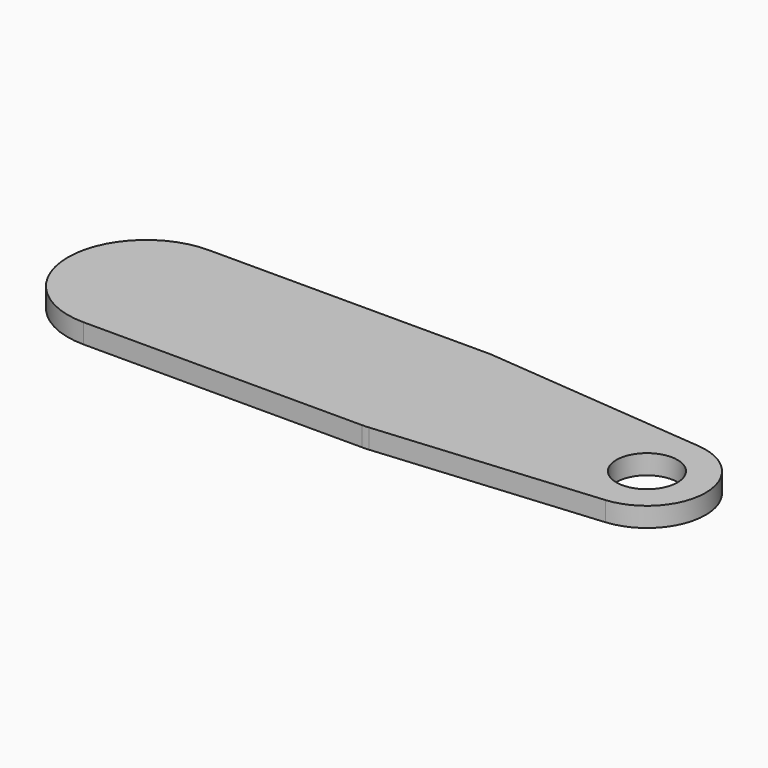
from build123d import *

# Parameters (mm, degrees)
SKETCH_R  = 6.25
PAD_DEPTH = 4


with BuildPart() as part:
    # Sketch → Pad (new body)
    with BuildSketch(Plane.XY):
        with BuildLine():
            ThreePointArc((1.054945, -11.953539), (12, 0), (1.054945, 11.953539))
            Line((-44.093407, 15.938052), (1.054945, 11.953539))
            ThreePointArc((-44.093407, 15.938052), (-44.796022, 15.984505), (-45.5, 16))
            Line((-102.5, 16), (-45.5, 16))
            ThreePointArc((-102.5, 16), (-118.5, -1.6e-05), (-102.499969, -16))
            Line((-102.499969, -16), (-45.5, -16))
            ThreePointArc((-45.5, -16), (-44.796022, -15.984505), (-44.093407, -15.938052))
            Line((-44.093407, -15.938052), (1.054945, -11.953539))
        make_face()
        Circle(SKETCH_R, mode=Mode.SUBTRACT)
    extrude(amount=PAD_DEPTH)


solid = part.part
